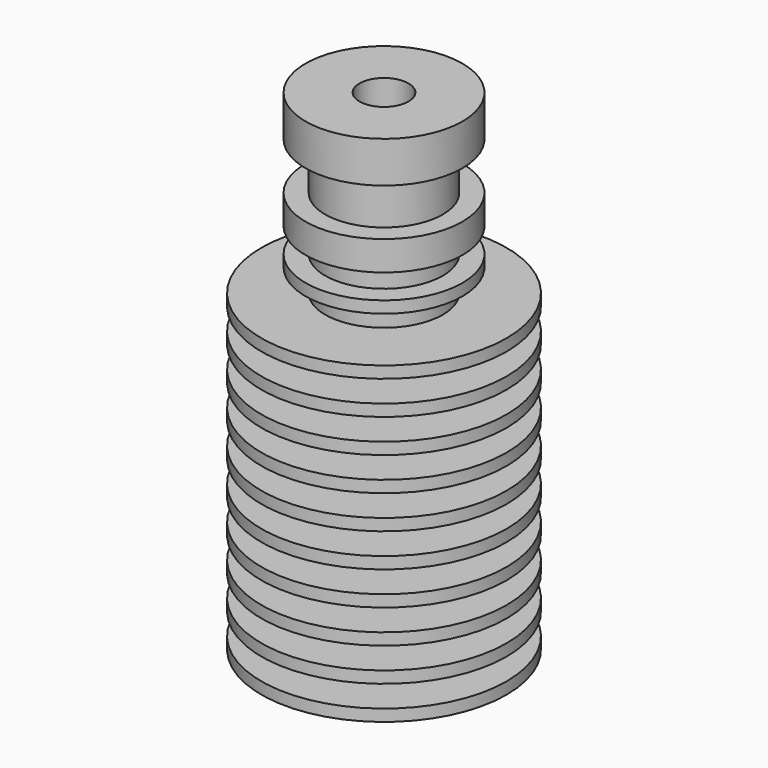
from build123d import *

# Parameters (mm, degrees)
F2_R     = 2.5
F3_DEPTH = 50.001


with BuildPart() as f1:
    # F0 (on Front) → F1 (revolve)
    with BuildSketch(Plane.XZ):
        Polygon((0, 50), (0, 0), (12.5, 0), (12.5, 1.2), (7.5, 1.2), (7.5, 3.422222), (12.5, 3.422222), (12.5, 4.622222), (7.5, 4.622222), (7.5, 6.844444), (12.5, 6.844444), (12.5, 8.044444), (7.5, 8.044444), (7.5, 10.266667), (12.5, 10.266667), (12.5, 11.466667), (7.5, 11.466667), (7.5, 13.688889), (12.5, 13.688889), (12.5, 14.888889), (7.5, 14.888889), (7.5, 17.111111), (12.5, 17.111111), (12.5, 18.311111), (7.5, 18.311111), (7.5, 20.533333), (12.5, 20.533333), (12.5, 21.733333), (7.5, 21.733333), (7.5, 23.955556), (12.5, 23.955556), (12.5, 25.155556), (7.5, 25.155556), (7.5, 27.377778), (12.5, 27.377778), (12.5, 28.577778), (7.5, 28.577778), (7.5, 30.8), (12.5, 30.8), (12.5, 32), (6, 32), (6, 34.3), (8, 34.3), (8, 35.5), (6, 35.5), (6, 38), (8, 38), (8, 41), (6, 41), (6, 45.8), (8, 45.8), (8, 50), align=None)
    revolve(axis=Axis((0, 0, 25), (0, 0, -1)))

    # F2 (on face) → F3 (cut, through all)
    with BuildSketch(Plane(origin=(0, 0, 0), x_dir=(1, 0, 0), z_dir=(0, 0, -1))):
        Circle(F2_R)
    extrude(amount=-F3_DEPTH, mode=Mode.SUBTRACT)


solid = f1.part
